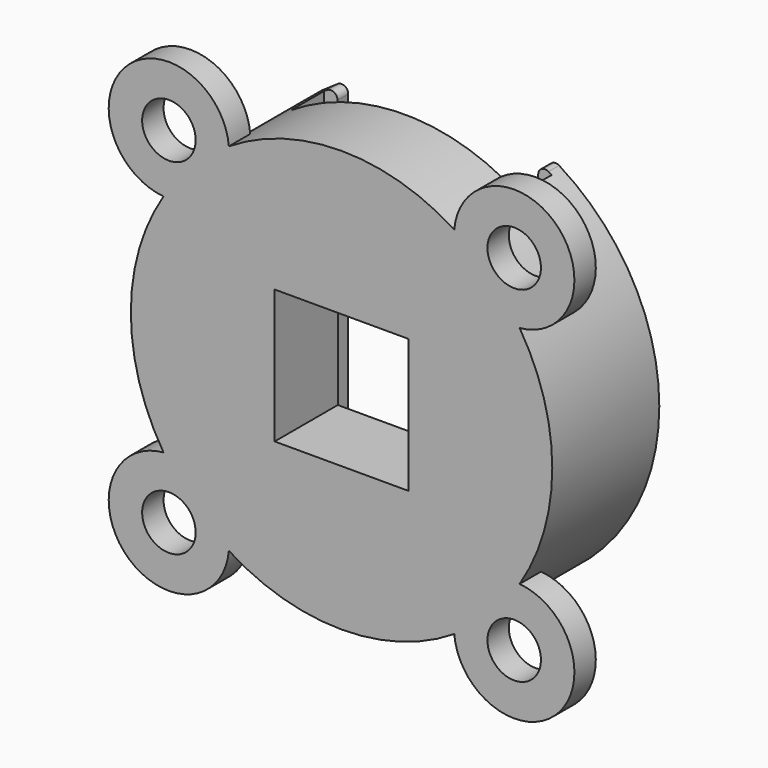
from build123d import *

# Parameters (mm, degrees)
CYLINDER008_R         = 15.75
CYLINDER008_DEPTH     = 10
CYLINDER009_R         = 4.5
CYLINDER009_DEPTH     = 2
POLARPATTERN002_COUNT = 4
CYLINDER010_R         = 2
CYLINDER010_DEPTH     = 4
POLARPATTERN003_COUNT = 4
BOX001_W              = 10
BOX001_H              = 10
BOX001_DEPTH          = 10
BOX003_W              = 32.5
BOX003_H              = 17
BOX003_DEPTH          = 3.1
BOX004_W              = 32.5
BOX004_H              = 15
BOX004_DEPTH          = 1
FILLET005_R           = 0.5


with BuildPart() as part:
    # Cylinder008 → Cylinder008 (join)
    with BuildSketch(Plane(origin=(0, 0, 0), x_dir=(-1, 0, 0), z_dir=(0, 1, 0))):
        Circle(CYLINDER008_R)
    extrude(amount=CYLINDER008_DEPTH)

    # Cylinder009 → Cylinder009 (join)
    with BuildSketch(Plane(origin=(12.904699, 0, -12.904699), x_dir=(0, 0, -1), z_dir=(0, 1, 0))):
        Circle(CYLINDER009_R)
    cylinder009 = extrude(amount=CYLINDER009_DEPTH)

    # PolarPattern002: Cylinder009 ×4 about axis
    polarpattern002_axis = Axis((0, 0, 0), (0, 1, 0))
    for i in range(1, POLARPATTERN002_COUNT):
        add(cylinder009.rotate(polarpattern002_axis, i * 360 / POLARPATTERN002_COUNT))

    # Cylinder010 → Cylinder010 (cut)
    with BuildSketch(Plane(origin=(12.904699, 0, 12.904699), x_dir=(0, 0, -1), z_dir=(0, 1, 0))):
        Circle(CYLINDER010_R)
    cylinder010 = extrude(amount=CYLINDER010_DEPTH, mode=Mode.SUBTRACT)

    # PolarPattern003: Cylinder010 ×4 about axis
    polarpattern003_axis = Axis((0, 0, 0), (0, 1, 0))
    for i in range(1, POLARPATTERN003_COUNT):
        add(cylinder010.rotate(polarpattern003_axis, i * 360 / POLARPATTERN003_COUNT), mode=Mode.SUBTRACT)

    # Box001 → Box001 (cut)
    with BuildSketch(Plane(origin=(5, 0, -5), x_dir=(-1, 0, 0), z_dir=(0, 1, 0))):
        with Locations((5, 5)):
            Rectangle(BOX001_W, BOX001_H)
    extrude(amount=BOX001_DEPTH, mode=Mode.SUBTRACT)

    # Box003 → Box003 (cut)
    with BuildSketch(Plane(origin=(-8.5, 9, 16.25), x_dir=(0, 0, -1), z_dir=(0, -1, 0))):
        with Locations((16.25, 8.5)):
            Rectangle(BOX003_W, BOX003_H)
    extrude(amount=BOX003_DEPTH, mode=Mode.SUBTRACT)

    # Box004 → Box004 (cut)
    with BuildSketch(Plane(origin=(-7.5, 10, 16.25), x_dir=(0, 0, -1), z_dir=(0, -1, 0))):
        with Locations((16.25, 7.5)):
            Rectangle(BOX004_W, BOX004_H)
    extrude(amount=BOX004_DEPTH, mode=Mode.SUBTRACT)

    # Fillet005
    fillet005_edges = [part.edges().sort_by_distance(p)[0] for p in [
        (-7.5, 9.5, -13.849639),
        (7.5, 9.5, 13.849639),
        (-7.5, 9.5, 13.849639),
        (7.5, 9.5, -13.849639),
    ]]
    fillet(fillet005_edges, radius=FILLET005_R)


with BuildPart() as part_1:
    # Body001 placement: moved
    add(part.part.moved(Location((0, 20, 0))))


solid = part_1.part
